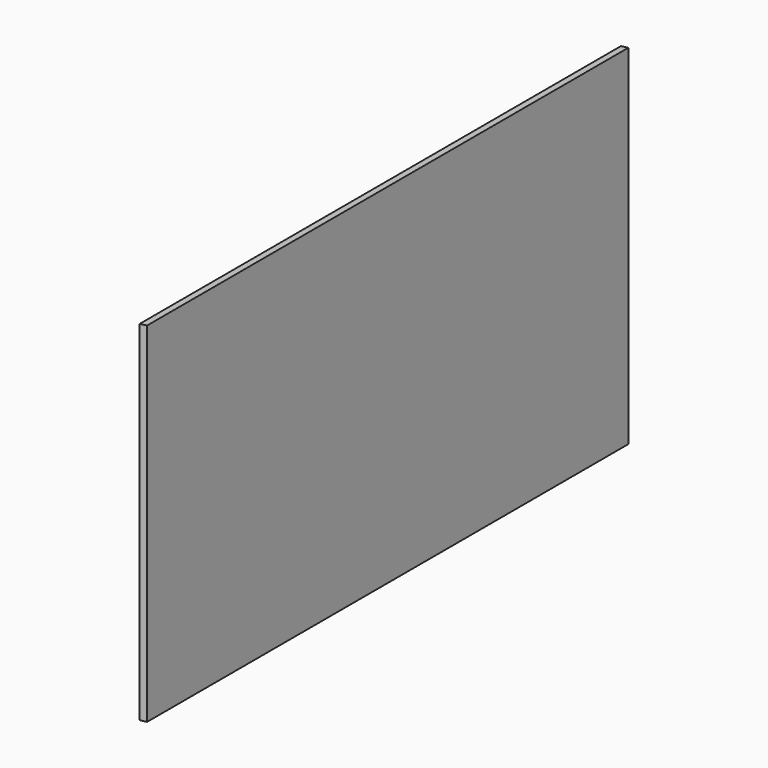
from build123d import *

# Parameters (mm, degrees)
F0_W     = 1219.2
F0_H     = 705.7204834
F1_DEPTH = 12.7
F3_DEPTH = 705.7214834


with BuildPart() as f1:
    # F0 (on Right) → F1 (new body)
    with BuildSketch(Plane.YZ):
        with Locations((-131.67509275, 6.6449750074)):
            Rectangle(F0_W, F0_H)
    extrude(amount=F1_DEPTH)

    # F2 (on face) → F3 (cut, through all)
    with BuildSketch(Plane.XY.offset(359.5052167074)):
        Polygon((12.7, -738.5436373349), (0, -741.27509275), (12.7, -741.27509275), align=None)
        Polygon((-24.0087328283, 470.0297681108), (0, 475.1934518348), (0, 477.92490725), (-24.0087328283, 477.92490725), align=None)
        Polygon((0, 477.92490725), (0, 475.1934518348), (12.7, 477.92490725), align=None)
    extrude(amount=-F3_DEPTH, mode=Mode.SUBTRACT)


solid = f1.part
